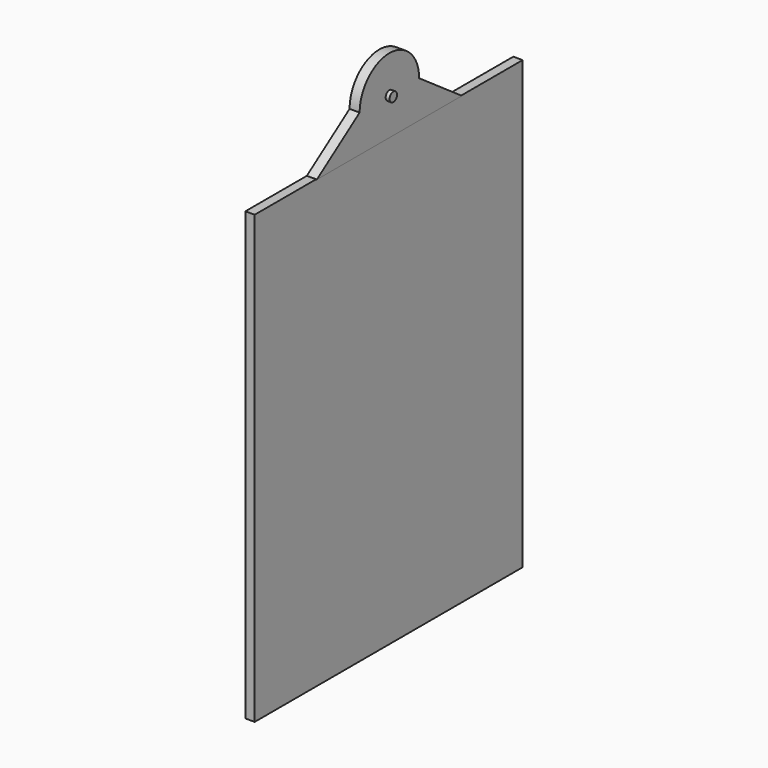
from build123d import *

# Parameters (mm, degrees)
F1_DEPTH = 9.525
F2_DEPTH = 6.35
F3_DEPTH = 6.858


with BuildPart() as f1:
    # F0 (on Right) → F1 (new body, symmetric)
    with BuildSketch(Plane.YZ):
        with BuildLine():
            ThreePointArc((0, -3.175), (2.245064, -2.245064), (3.175, 0))
            ThreePointArc((3.175, 0), (-2.245064, 2.245064), (0, -3.175))
        make_face()
    extrude(amount=F1_DEPTH, both=True)


with BuildPart() as f2:
    # F0 (on Right) → F2 (new body)
    with BuildSketch(Plane.YZ):
        Polygon((61.877973, -25.4), (0, -25.4), (-61.877973, -25.4), (-114.3, -25.4), (-114.3, -330.2), (114.3, -330.2), (114.3, -25.4), align=None)
    extrude(amount=F2_DEPTH)


with BuildPart() as f3:
    # F0 (on Right) → F3 (new body)
    with BuildSketch(Plane.YZ):
        with BuildLine():
            Line((-61.877973, -25.4), (0, -25.4))
            ThreePointArc((0, -25.4), (-17.960512, -17.960512), (-25.4, 0))
            Line((-25.4, 0), (-61.877973, -25.4))
        make_face()
        with BuildLine():
            ThreePointArc((-25.4, 0), (-17.960512, -17.960512), (0, -25.4))
            ThreePointArc((0, -25.4), (17.960512, -17.960512), (25.4, 0))
            ThreePointArc((25.4, 0), (0, 25.4), (-25.4, 0))
        make_face()
        with BuildLine():
            ThreePointArc((0, -3.175), (-2.245064, 2.245064), (3.175, 0))
            ThreePointArc((3.175, 0), (2.245064, -2.245064), (0, -3.175))
        make_face(mode=Mode.SUBTRACT)
        with BuildLine():
            ThreePointArc((25.4, 0), (17.960512, -17.960512), (0, -25.4))
            Line((0, -25.4), (61.877973, -25.4))
            Line((61.877973, -25.4), (25.4, 0))
        make_face()
    extrude(amount=F3_DEPTH)


solid = Compound([f1.part, f2.part, f3.part])
